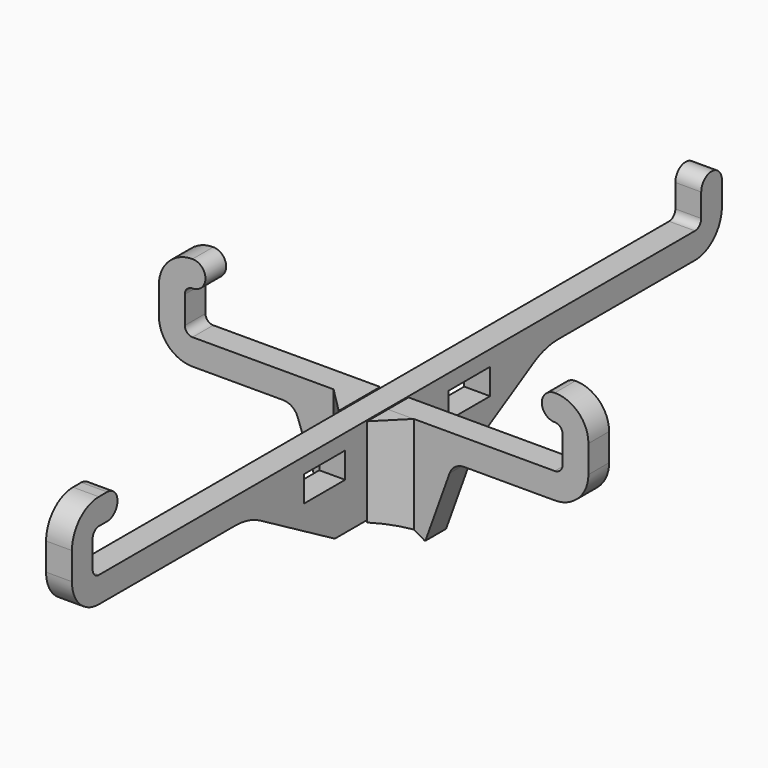
from build123d import *

# Parameters (mm, degrees)
SKETCH_W     = 10
SKETCH_H     = 5
PAD_DEPTH    = 2.5
PAD001_DEPTH = 2.5
PAD002_DEPTH = 20
POCKET_DEPTH = 10


with BuildPart() as vertical:
    # Sketch → Pad (new body, symmetric)
    with BuildSketch(Plane.YZ):
        with BuildLine():
            Line((78.5, 18.499999), (78.5, 22.999991))
            ThreePointArc((78.5, 22.999991), (76.000005, 25.499991), (73.5, 23))
            Line((73.5, 18.499988), (73.5, 23))
            ThreePointArc((71.999995, 17), (73.060653, 17.439335), (73.5, 18.499988))
            Line((-71.999996, 17), (71.999995, 17))
            ThreePointArc((-73.5, 18.499988), (-73.060655, 17.439334), (-71.999996, 17))
            Line((-73.5, 23.800015), (-73.5, 18.499988))
            ThreePointArc((-71.999996, 25.3), (-73.060654, 24.860667), (-73.5, 23.800015))
            Line((-71.999996, 25.3), (-69.999996, 25.3))
            ThreePointArc((-69.999996, 25.3), (-67.499996, 27.799999), (-69.999995, 30.3))
            Line((-69.999995, 30.3), (-72.000001, 30.3))
            ThreePointArc((-72.000001, 30.3), (-76.596194, 28.396194), (-78.5, 23.800001))
            Line((-78.5, 18.499988), (-78.5, 23.800001))
            ThreePointArc((-78.5, 18.499988), (-76.59619, 13.903802), (-72.000001, 12))
            Line((-72.000001, 12), (-38.960752, 12))
            ThreePointArc((-33, 10.392302), (-35.873874, 11.59102), (-38.960752, 12))
            Line((-15, 0), (-33, 10.392302))
            Line((-15, 0), (-2.75, 0))
            Line((-2.75, 0), (-2.75, 8.7))
            Line((-2.75, 8.7), (2.75, 8.7))
            Line((2.75, 8.7), (2.75, 0))
            Line((2.75, 0), (15, 0))
            Line((15, 0), (33, 10.392302))
            ThreePointArc((38.960752, 12), (35.873874, 11.59102), (33, 10.392302))
            Line((38.960752, 12), (72, 12))
            ThreePointArc((72, 12), (76.596194, 13.903806), (78.5, 18.499999))
        make_face()
        with Locations((-17.5, 11.5)):
            Rectangle(SKETCH_W, SKETCH_H, mode=Mode.SUBTRACT)
        with Locations((17.5, 11.5)):
            Rectangle(SKETCH_W, SKETCH_H, mode=Mode.SUBTRACT)
    extrude(amount=PAD_DEPTH, both=True)


with BuildPart() as fusion:
    # Sketch001 → Pad001 (new body, symmetric)
    with BuildSketch(Plane.XZ):
        with BuildLine():
            Line((17.5, 12.00002), (34.999989, 12))
            ThreePointArc((34.999989, 12), (39.596192, 13.903803), (41.5, 18.500004))
            Line((41.5, 23.800035), (41.5, 18.500004))
            ThreePointArc((41.5, 23.800035), (39.596194, 28.396233), (34.999996, 30.300039))
            ThreePointArc((34.999996, 30.300039), (32.499996, 27.800039), (34.999996, 25.300039))
            ThreePointArc((36.5, 23.800035), (36.06066, 24.860699), (34.999996, 25.300039))
            Line((36.5, 18.500004), (36.5, 23.800035))
            ThreePointArc((34.999996, 17), (36.06066, 17.43934), (36.5, 18.500004))
            Line((2.75, 17), (34.999996, 17))
            Line((2.75, 8.3), (2.75, 17))
            Line((-2.75, 8.3), (2.75, 8.3))
            Line((-2.75, 17.00002), (-2.75, 8.3))
            Line((-35, 17.00002), (-2.75, 17.00002))
            ThreePointArc((-36.5, 18.500004), (-36.060654, 17.439354), (-35, 17.00002))
            Line((-36.5, 18.500004), (-36.5, 23.800035))
            ThreePointArc((-34.999996, 25.30002), (-36.060654, 24.860687), (-36.5, 23.800035))
            ThreePointArc((-34.999996, 25.30002), (-32.499996, 27.80002), (-34.999996, 30.30002))
            ThreePointArc((-34.999996, 30.30002), (-39.596188, 28.396221), (-41.5, 23.800035))
            Line((-41.5, 23.800035), (-41.5, 18.500004))
            ThreePointArc((-41.5, 18.500004), (-39.596187, 13.903819), (-34.999997, 12.00002))
            Line((-34.999997, 12.00002), (-17.5, 12.00002))
            ThreePointArc((-14.676751, 10.014549), (-15.774252, 11.453955), (-17.5, 12.00002))
            Line((-14.676751, 10.014549), (-10, -3))
            Line((-10, -3), (10, -3))
            Line((10, -3), (14.676748, 10.014548))
            ThreePointArc((17.5, 12.00002), (15.774249, 11.453955), (14.676748, 10.014548))
        make_face()
    extrude(amount=PAD001_DEPTH, both=True)

    # Sketch002 → Pad002 (new body)
    with BuildSketch(Plane(origin=(0, 0, 17.00002), x_dir=(-1, 0, 0), z_dir=(0, 0, 1))):
        Polygon((-7.75, 2.5), (-2.75, 7.5), (-2.75, 2.5), align=None)
        Polygon((2.75, 7.5), (2.75, 2.5), (7.75, 2.5), align=None)
    extrude(amount=-PAD002_DEPTH)

    # Sketch003 → Pocket (cut)
    with BuildSketch(Plane(origin=(0, 2.5, 0), x_dir=(1, 0, 0), z_dir=(0, 1, 0))):
        with BuildLine():
            ThreePointArc((-10, 3.138593), (0, 0), (10, 3.138593))
            Line((-10, 3.138593), (10, 3.138593))
        make_face()
    extrude(amount=-POCKET_DEPTH, mode=Mode.SUBTRACT)

    # Fusion: union Vertical
    add(vertical.part)


solid = fusion.part
